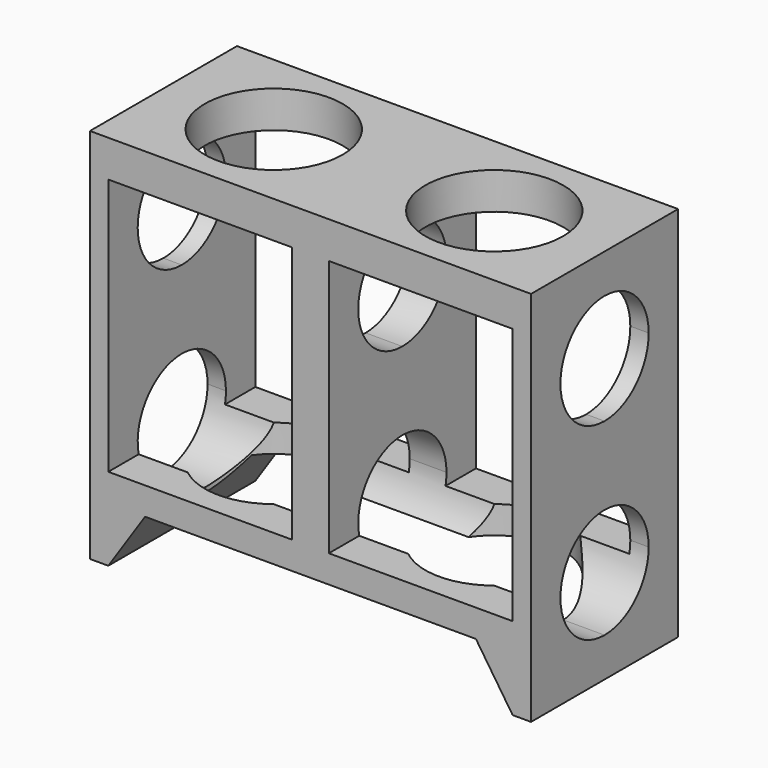
from build123d import *

# Parameters (mm, degrees)
F0_W     = 20
F0_H     = 28
F1_DEPTH = 20
F3_DEPTH = 50
F5_DEPTH = 50


with BuildPart() as f1:
    # F0 (on Front) → F1 (new body)
    with BuildSketch(Plane.XZ):
        Polygon((0, 3), (0, 0), (18, 0), (22, -6), (24, -6), (24, 35), (22, 35), (0, 35), align=None)
        with Locations((12, 17)):
            Rectangle(F0_W, F0_H, mode=Mode.SUBTRACT)
        Polygon((-18, 0), (0, 0), (0, 3), (0, 35), (-22, 35), (-24, 35), (-24, -6), (-22, -6), align=None)
        with Locations((-12, 17)):
            Rectangle(F0_W, F0_H, mode=Mode.SUBTRACT)
    extrude(amount=F1_DEPTH)

    # F2 (on face) → F3 (cut)
    with BuildSketch(Plane.XY.offset(35)):
        with BuildLine():
            ThreePointArc((-19.5, -10), (-12, -17.5), (-4.5, -10))
            Line((-4.5, -10), (-19.5, -10))
        make_face()
        with BuildLine():
            Line((-19.5, -10), (-4.5, -10))
            ThreePointArc((-4.5, -10), (-12, -2.5), (-19.5, -10))
        make_face()
        with BuildLine():
            Line((19.5, -10), (4.5, -10))
            ThreePointArc((4.5, -10), (12, -17.5), (19.5, -10))
        make_face()
        with BuildLine():
            ThreePointArc((19.5, -10), (12, -2.5), (4.5, -10))
            Line((4.5, -10), (19.5, -10))
        make_face()
    extrude(amount=-F3_DEPTH, mode=Mode.SUBTRACT)

    # F4 (on face) → F5 (cut)
    with BuildSketch(Plane.YZ.offset(24)):
        with BuildLine():
            ThreePointArc((-10, 30.75), (-16, 24.75), (-10, 18.75))
            Line((-10, 18.75), (-10, 30.75))
        make_face()
        with BuildLine():
            Line((-10, 30.75), (-10, 18.75))
            ThreePointArc((-10, 18.75), (-5.7573593129, 20.5073593129), (-4, 24.75))
            ThreePointArc((-4, 24.75), (-5.7573593129, 28.9926406871), (-10, 30.75))
        make_face()
        with BuildLine():
            Line((-10, 10.25), (-10, -1.75))
            ThreePointArc((-10, -1.75), (-5.7573593129, 0.0073593129), (-4, 4.25))
            ThreePointArc((-4, 4.25), (-5.7573593129, 8.4926406871), (-10, 10.25))
        make_face()
        with BuildLine():
            ThreePointArc((-10, 10.25), (-16, 4.25), (-10, -1.75))
            Line((-10, -1.75), (-10, 10.25))
        make_face()
    extrude(amount=-F5_DEPTH, mode=Mode.SUBTRACT)


solid = f1.part
